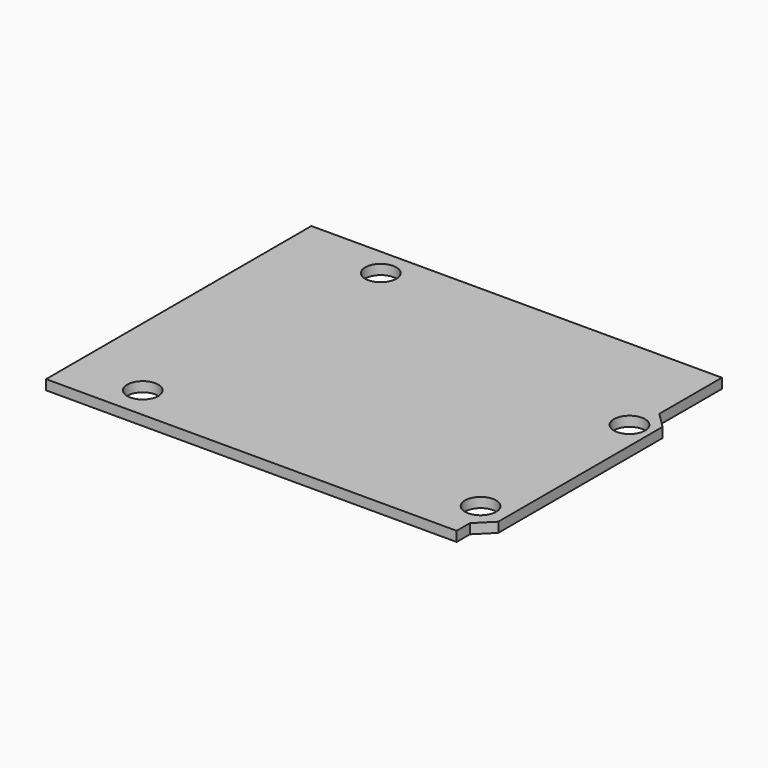
from build123d import *

# Parameters (mm, degrees)
F1_DEPTH = 1.588
F2_R     = 2.5
F3_DEPTH = 1.589


with BuildPart() as f1:
    # F0 (on Top) → F1 (new body)
    with BuildSketch(Plane.XY):
        Polygon((33.02, 26.67), (-33.02, 26.67), (-33.02, -26.67), (33.02, -26.67), (33.02, -24.003), (33.02, 14.097), align=None)
        Polygon((35.56, 11.557), (33.02, 14.097), (33.02, -24.003), (35.56, -21.463), align=None)
    extrude(amount=F1_DEPTH)

    # F2 (on face) → F3 (cut, through all)
    with BuildSketch(Plane.XY.offset(1.588)):
        with Locations((-18.220948, 22.122128)):
            Circle(F2_R)
        with Locations((31.972159, 9.393649)):
            Circle(F2_R)
        with Locations((31.171337, -19.547544)):
            Circle(F2_R)
        with Locations((-21.635612, -21.463)):
            Circle(F2_R)
    extrude(amount=-F3_DEPTH, mode=Mode.SUBTRACT)


solid = f1.part
